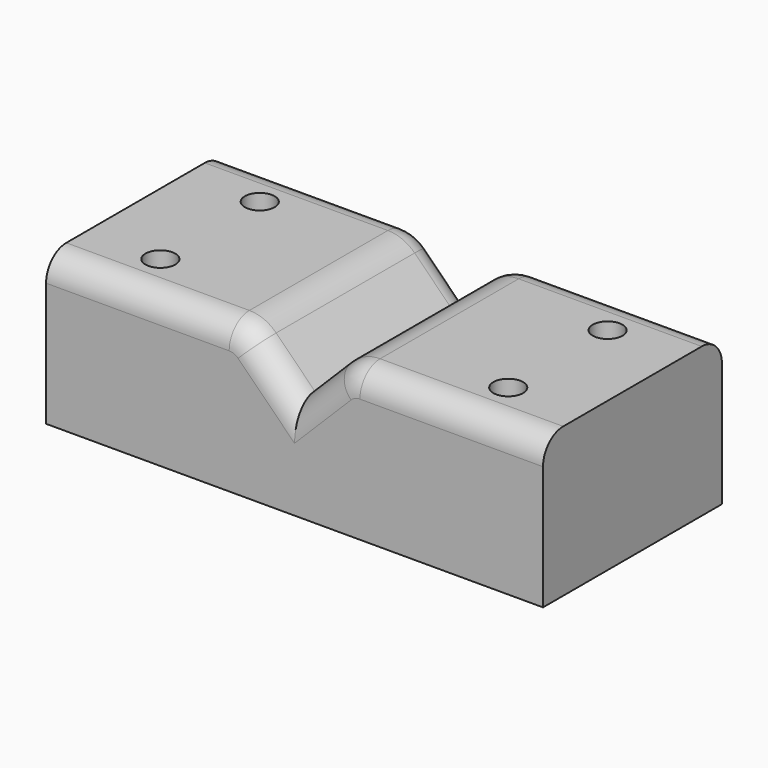
from build123d import *

# Parameters (mm, degrees)
F1_DEPTH       = 45
F2_R           = 7.62
F3_R           = 5.08
F5_D           = 6
F5_CBORE_D     = 11
F5_CBORE_DEPTH = 18


with BuildPart() as f1:
    # F0 (on Front) → F1 (new body)
    with BuildSketch(Plane.XZ):
        Polygon((50, 20), (20, 20), (10, 20), (0, 10), (-10, 20), (-20, 20), (-50, 20), (-50, 0), (-50, -10), (50, -10), (50, 0), align=None)
    extrude(amount=F1_DEPTH)

    # F2
    f2_edges = [f1.edges().sort_by_distance(p)[0] for p in [
        (10, -22.5, 20),
        (-10, -22.5, 20),
    ]]
    fillet(f2_edges, radius=F2_R)

    # F3
    f3_edges = [f1.edges().sort_by_distance(p)[0] for p in [
        (-31.578154, -45, 20),
        (31.578154, -45, 20),
        (31.578154, 0, 20),
        (-31.578154, 0, 20),
    ]]
    fillet(f3_edges, radius=F3_R)

    # F5 (through all)
    with Locations(Plane(origin=(0, 0, -10), x_dir=(1, 0, 0), z_dir=(0, 0, -1))):
        with Locations((35, 10), (35, 35), (-35, 35), (-35, 10)):
            CounterBoreHole(F5_D / 2, F5_CBORE_D / 2, F5_CBORE_DEPTH)


solid = f1.part
